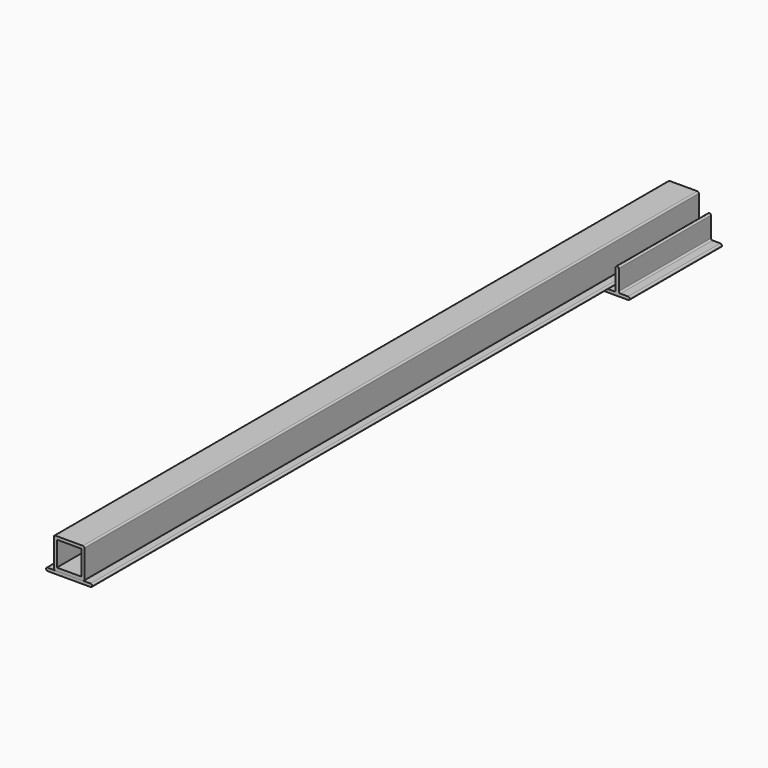
from build123d import *

# Parameters (mm, degrees)
F1_DEPTH = 150
F0_W     = 32
F0_H     = 32
F2_DEPTH = 1000
F3_DEPTH = 1000


with BuildPart() as f1:
    # F0 (on Front) → F1 (new body)
    with BuildSketch(Plane.XZ):
        with BuildLine():
            Line((29.70057, -8), (0, -8))
            Line((0, -8), (-29.70057, -8))
            ThreePointArc((-29.70057, -8), (-31.114784, -7.414214), (-31.70057, -6))
            Line((-31.70057, -6), (-31.70057, 20))
            ThreePointArc((-31.70057, 20), (-32.286357, 21.414214), (-33.70057, 22))
            ThreePointArc((-33.70057, 22), (-35.114784, 21.414214), (-35.70057, 20))
            Line((-35.70057, 20), (-35.70057, -6))
            ThreePointArc((-35.70057, -6), (-36.286357, -7.414214), (-37.70057, -8))
            Line((-37.70057, -8), (-48, -8))
            ThreePointArc((-48, -8), (-49.414214, -8.585786), (-50, -10))
            ThreePointArc((-50, -10), (-49.414214, -11.414214), (-48, -12))
            Line((-48, -12), (0, -12))
            Line((0, -12), (48, -12))
            ThreePointArc((48, -12), (49.414214, -11.414214), (50, -10))
            ThreePointArc((50, -10), (49.414214, -8.585786), (48, -8))
            Line((48, -8), (37.70057, -8))
            ThreePointArc((37.70057, -8), (36.286357, -7.414214), (35.70057, -6))
            Line((35.70057, -6), (35.70057, 20))
            ThreePointArc((35.70057, 20), (35.114784, 21.414214), (33.70057, 22))
            ThreePointArc((33.70057, 22), (32.286357, 21.414214), (31.70057, 20))
            Line((31.70057, 20), (31.70057, -6))
            ThreePointArc((31.70057, -6), (31.114784, -7.414214), (29.70057, -8))
        make_face()
    extrude(amount=F1_DEPTH)


with BuildPart() as f2:
    # F0 (on Front) → F2 (new body)
    with BuildSketch(Plane.XZ):
        with BuildLine():
            ThreePointArc((-20, 4), (-19.414214, 2.585786), (-18, 2))
            Line((-18, 2), (18, 2))
            ThreePointArc((18, 2), (19.414214, 2.585786), (20, 4))
            Line((20, 4), (20, 40))
            ThreePointArc((20, 40), (19.414214, 41.414214), (18, 42))
            Line((18, 42), (-18, 42))
            ThreePointArc((-18, 42), (-19.414214, 41.414214), (-20, 40))
            Line((-20, 40), (-20, 4))
        make_face()
        with Locations((0, 22)):
            Rectangle(F0_W, F0_H, mode=Mode.SUBTRACT)
    extrude(amount=F2_DEPTH)


with BuildPart() as f3:
    # F0 (on Front) → F3 (new body)
    with BuildSketch(Plane.XZ):
        with BuildLine():
            Line((-18, 2), (-28, 2))
            ThreePointArc((-28, 2), (-29.414214, 1.414214), (-30, 0))
            ThreePointArc((-30, 0), (-29.414214, -1.414214), (-28, -2))
            Line((-28, -2), (28, -2))
            ThreePointArc((28, -2), (29.414214, -1.414214), (30, 0))
            ThreePointArc((30, 0), (29.414214, 1.414214), (28, 2))
            Line((28, 2), (18, 2))
            Line((18, 2), (-18, 2))
        make_face()
    extrude(amount=F3_DEPTH)


solid = Compound([f1.part, f2.part, f3.part])
